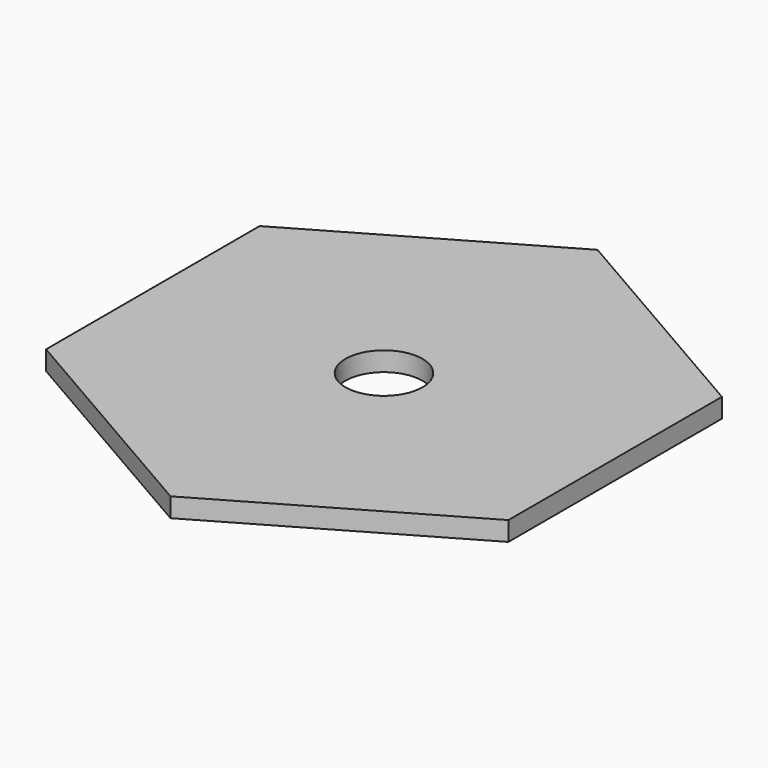
from build123d import *

# Parameters (mm, degrees)
F1_DEPTH = 6.35
F2_R     = 12.7
F3_DEPTH = 25.4


with BuildPart() as f1:
    # F0 (on Top) → F1 (new body)
    with BuildSketch(Plane.XY):
        Polygon((0, -87.988181), (76.2, -43.994091), (76.2, 43.994091), (0, 87.988181), (-76.2, 43.994091), (-76.2, -43.994091), align=None)
    extrude(amount=F1_DEPTH)

    # F2 (on face) → F3 (cut)
    with BuildSketch(Plane.XY.offset(6.35)):
        Circle(F2_R)
    extrude(amount=-F3_DEPTH, mode=Mode.SUBTRACT)


solid = f1.part
